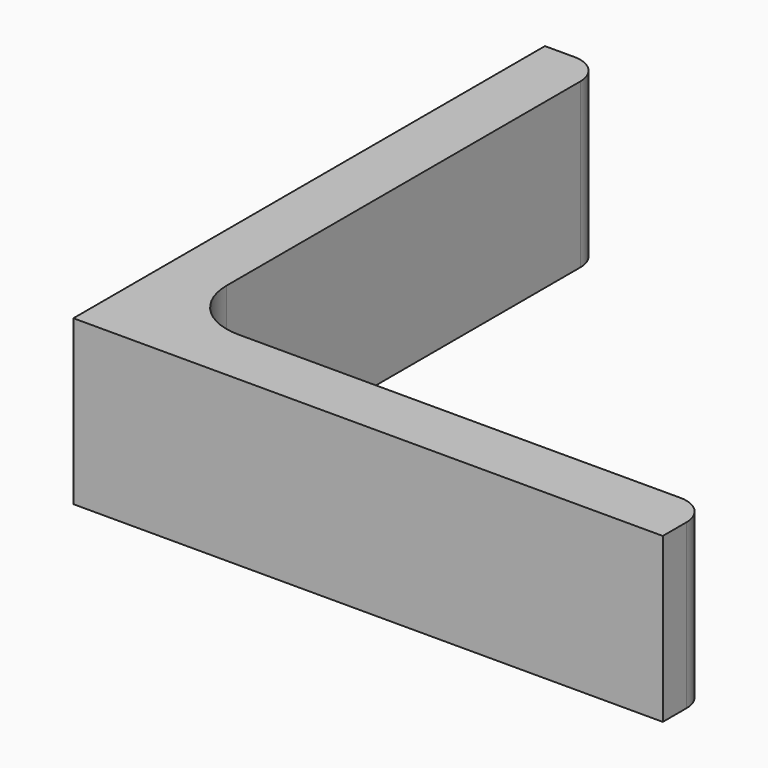
from build123d import *

# Parameters (mm, degrees)
EXTRUDE_DEPTH = 50


with BuildPart() as part:
    # Sketch → Extrude (new body)
    with BuildSketch(Plane.XY):
        with BuildLine():
            Line((0, 0), (180, 0))
            Line((180, 0), (180, 9))
            ThreePointArc((180, 9), (177.363961, 15.363961), (171, 18))
            Line((171, 18), (36, 18))
            ThreePointArc((18, 36), (23.272078, 23.272078), (36, 18))
            Line((18, 171), (18, 36))
            ThreePointArc((18, 171), (15.363961, 177.363961), (9, 180))
            Line((0, 180), (9, 180))
            Line((0, 0), (0, 180))
        make_face()
    extrude(amount=EXTRUDE_DEPTH)


solid = part.part
